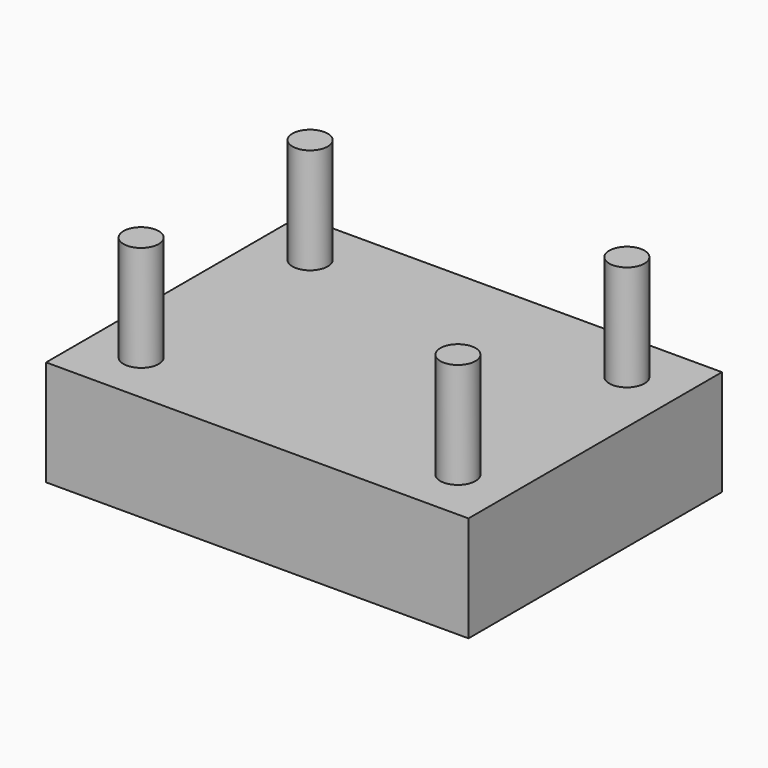
from build123d import *

# Parameters (mm, degrees)
F0_W     = 1219.2
F0_H     = 914.4
F1_DEPTH = 304.8
F2_R     = 50.8
F3_DEPTH = 304.8


with BuildPart() as f1:
    # F0 (on Top) → F1 (new body)
    with BuildSketch(Plane.XY):
        Rectangle(F0_W, F0_H)
    extrude(amount=F1_DEPTH)

    # F2 (on face) → F3 (join)
    with BuildSketch(Plane.XY.offset(304.8)):
        with Locations((-457.2, 304.8)):
            Circle(F2_R)
        with Locations((457.2, 304.8)):
            Circle(F2_R)
        with Locations((457.2, -304.8)):
            Circle(F2_R)
        with Locations((-457.2, -304.8)):
            Circle(F2_R)
    extrude(amount=F3_DEPTH)


solid = f1.part
